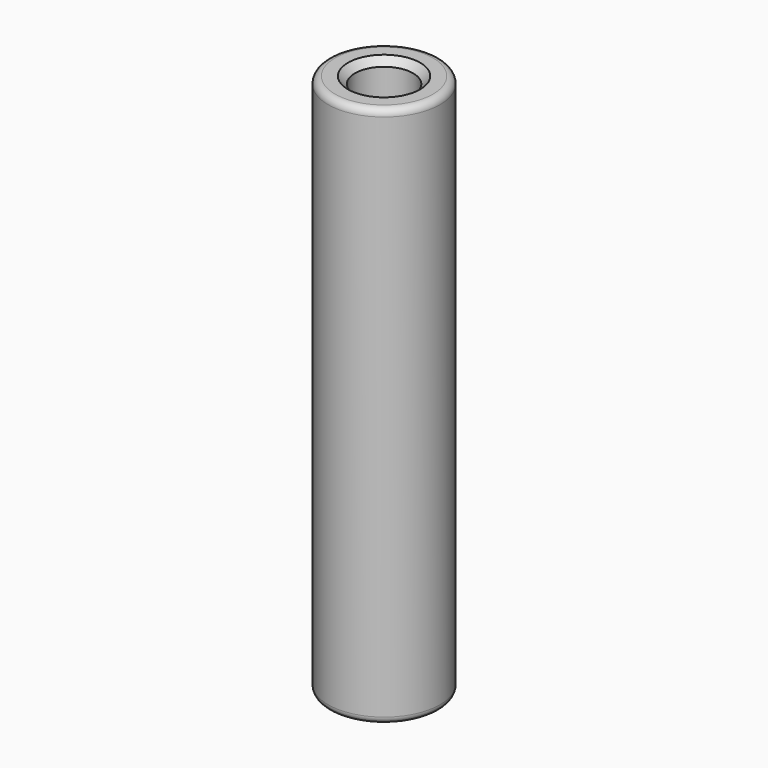
from build123d import *

# Parameters (mm, degrees)
F0_R     = 12.7
F0_R_2   = 6.604
F1_DEPTH = 123.03252
F2_SIZE  = 1.5875
F3_R     = 1.5875


with BuildPart() as f1:
    # F0 (on Top) → F1 (new body)
    with BuildSketch(Plane.XY):
        Circle(F0_R)
        Circle(F0_R_2, mode=Mode.SUBTRACT)
    extrude(amount=F1_DEPTH)

    # F2
    f2_edges = [f1.edges().sort_by_distance(p)[0] for p in [
        (6.604, 0, 61.51626),
        (-6.604, 0, 0),
        (-6.604, 0, 123.03252),
    ]]
    chamfer(f2_edges, length=F2_SIZE)

    # F3
    f3_edges = [f1.edges().sort_by_distance(p)[0] for p in [
        (12.7, 0, 61.51626),
        (-12.7, 0, 0),
        (-12.7, 0, 123.03252),
    ]]
    fillet(f3_edges, radius=F3_R)


solid = f1.part
